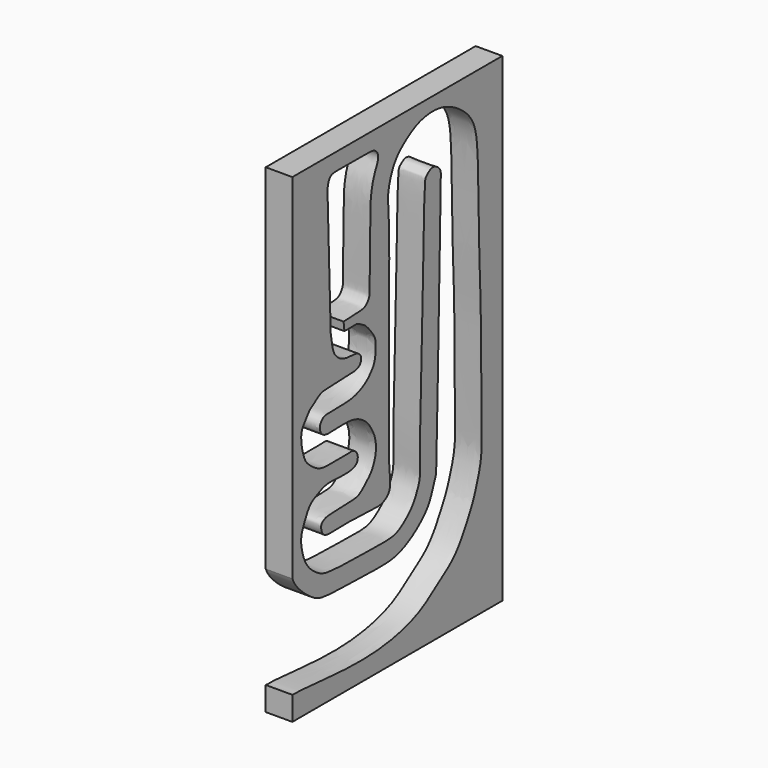
from build123d import *

# Parameters (mm, degrees)
F1_DEPTH = 25


with BuildPart() as f1:
    # F0 (on Right) → F1 (new body)
    with BuildSketch(Plane.YZ):
        with BuildLine():
            add(Edge.make_bspline(
                [(44.9712239206, 302.7128875256), (45.4526949302, 299.0960728343), (46.4029340958, 291.9578674051), (49.2035499811, 281.9020774971), (58.7554108546, 275.1390911206), (68.1329133345, 274.3241724622), (74.6206598461, 274.1159996605), (78.57594387, 272.2497413749), (80.6703059955, 269.5411970197), (80.7605682277, 264.3125402484), (77.2016242714, 260.7084792745), (68.5437792435, 259.3629142109), (54.8856034393, 259.6265127602), (46.426241762, 258.9590730913), (35.1470562234, 258.8736345603), (29.9851322588, 256.1275599425), (24.1733387007, 251.5747820657), (20.1449314395, 249.7710841633), (14.9839578995, 242.0830307621), (10.1692304565, 236.1220322001), (10.3780857055, 227.2063339283), (11.0945065174, 221.8946979415), (13.708542815, 211.9611237975), (17.2947178239, 205.9176061722), (26.5763233217, 198.5861187065), (35.5551295581, 194.4088235524), (53.0982035992, 195.3839492028), (64.2248449492, 194.5929600697), (70.8064264471, 195.9608660141), (75.9430162555, 192.0355017554), (77.1968897656, 186.9993038379), (75.3805396701, 181.6211149385), (67.4399266211, 179.2648797096), (54.0477534346, 179.5085195439), (43.6630602103, 180.5349744277), (35.1387095463, 178.8721019624), (28.5048632281, 175.37961951), (21.6602687088, 172.5140872007), (16.585301104, 164.7649862608), (12.1850153389, 154.8276980838), (9.6629147525, 147.393853199), (11.1688231954, 135.8680509439), (15.0576782547, 124.7823652343), (21.8523371942, 116.3085995405), (31.7111884158, 109.3284217772), (40.8114337578, 106.3666699603), (59.9832091133, 105.3759292472), (77.2826684409, 105.302842968), (111.1433545752, 104.1137163406), (124.7740896242, 106.2145780866), (140.8678654116, 119.5656068407), (146.0040580463, 130.5282803924), (150.2460672424, 140.0785319196), (149.3340626131, 159.5827882329), (150.1173105049, 194.6971120608), (151.9645771227, 249.935651556), (153.1305255238, 297.05073433), (154.4208433336, 371.3108396771), (155.7406763815, 380.6330414098), (155.6609613688, 385.976999998), (159.4643050549, 388.9379228132), (163.3456752819, 391.714865994), (168.5180401875, 390.6360253891), (171.9403080655, 387.6926778874), (174.5705561905, 384.7869373158), (173.933780139, 372.2060177476), (173.8881329779, 367.0574966897), (169.1801753039, 142.2218495958), (168.4756124728, 135.3294586496), (164.1377563703, 124.4008336253), (160.3844374556, 113.8017413236), (151.3651410269, 104.4311561348), (141.8823709217, 96.4956612313), (124.7700485703, 87.4216497718), (106.2589829632, 85.6650258125), (74.6575251693, 86.901544153), (40.0615525412, 87.3989188393), (27.7497882395, 90.0235679554), (15.4669273426, 98.92759597), (5.7690238857, 108.0586160012), (1.2508981864, 115.3767069729), (1.5947656939, 114.8453205824), (0, 118.2868406177)],
                knots=[0, 0, 0, 0, 0.0118140963, 0.0231729915, 0.0350179215, 0.0459993731, 0.0550613515, 0.0622720622, 0.0686843852, 0.0764715003, 0.0839946829, 0.0944824762, 0.1077186141, 0.1185039585, 0.1302000587, 0.1389480486, 0.148407439, 0.1559567264, 0.1666045065, 0.1766449015, 0.1868743306, 0.1954256311, 0.2066183262, 0.2162628197, 0.2282250607, 0.2395628501, 0.2544752469, 0.266580328, 0.2754777803, 0.2840179969, 0.2919507834, 0.2998203182, 0.3096685497, 0.3229041504, 0.3345882654, 0.3449414723, 0.3546880894, 0.3642209712, 0.375001365, 0.3867930275, 0.3967565228, 0.4087549517, 0.4210352039, 0.432803437, 0.444965685, 0.4560579073, 0.4712704076, 0.4868995433, 0.5074201442, 0.5209733173, 0.5367861559, 0.5492117249, 0.5603400178, 0.5756156288, 0.5970204906, 0.6232727987, 0.6495068638, 0.6797116812, 0.6903097538, 0.6978073935, 0.7054076771, 0.7130983979, 0.7209914664, 0.7284355558, 0.7353914128, 0.746855061, 0.7582819463, 0.8113193445, 0.8228900942, 0.834092036, 0.8462977551, 0.8589315925, 0.8716298378, 0.8870210256, 0.90233586, 0.922812209, 0.9438409626, 0.9563290559, 0.969988856, 0.9834898884, 0.992574019, 1, 1, 1, 1], degree=3))
            Line((44.9712239206, 302.7128875256), (41.1780402064, 423.5371947289))
            add(Edge.make_bspline(
                [(60.0567497313, 306.2294721603), (64.4351771267, 306.4693194385), (72.5494915309, 306.9138160709), (82.5745950595, 307.1440394515), (87.0334490447, 309.1645144388), (90.5731199176, 314.5201753785), (90.7804055262, 321.0420996686), (91.1565660598, 388.0617421768), (92.2311416473, 396.9074009261), (93.7209207778, 406.3269393977), (96.9353072397, 415.5688571046), (101.5799622801, 424.0313084222), (99.8682637569, 430.241095431), (96.1364985531, 433.1475215239), (90.8143611435, 434.0344356979), (81.3963443199, 433.4665932694), (50.5319990173, 434.5069517385), (45.7423183079, 433.2377527903), (43.6789516373, 431.5601413743), (42.4838785401, 429.0948239297), (41.9927522456, 427.6234459718), (41.8428555131, 426.5092909336), (41.1780402064, 423.5371947289)],
                knots=[0, 0, 0, 0, 0.0616224958, 0.1150147657, 0.1519605526, 0.1912561536, 0.2376776094, 0.3768381894, 0.4326798224, 0.4822262024, 0.5368901687, 0.5894023191, 0.6303536712, 0.666100565, 0.7032465627, 0.7582629821, 0.8535546761, 0.8907006494, 0.916941829, 0.9449768762, 0.9637410453, 1, 1, 1, 1], degree=3))
            Line((60.0567497313, 306.2294721603), (61.1090660095, 297.8767454624))
            add(Edge.make_bspline(
                [(61.1090660095, 297.8767454624), (65.6298837576, 297.9942358749), (72.6353617105, 298.1762995058), (76.132692168, 298.0612521375), (82.4146049068, 294.6398318768), (85.9498648341, 292.4381028065), (89.8189072975, 288.1723365171), (97.0252778476, 279.2455165635), (98.1408041419, 271.7982864543), (97.2408381904, 257.443698058), (91.8683336839, 251.0537569346), (86.8163538452, 245.39848615), (76.3198120067, 239.99489742), (64.3152102125, 237.7083878488), (43.6213486183, 238.0788108477), (36.8730991391, 237.4822644122), (33.5036658978, 234.2060102471), (31.4676228025, 229.7749379201), (33.1803127786, 225.64799518), (33.4795811008, 224.7857815071), (37.5009030689, 220.4188828194), (51.0586957567, 221.3281469023), (65.414181971, 221.7722492171), (75.797085081, 219.9074027819), (85.5489857122, 214.3350594027), (91.858757141, 206.543513783), (97.3228711809, 196.4745077939), (98.9280679901, 183.4343121761), (94.2019661439, 169.823193227), (86.9795118986, 163.0519710519), (82.8196345667, 159.192794988), (76.7025488908, 154.4003347208), (65.292300352, 154.3965817981), (49.2160064245, 153.7356794591), (39.7730210738, 153.3369841016), (35.7294639139, 151.3116827221), (33.1455503229, 148.4835286849), (34.4179474706, 142.6898580149), (36.4759644328, 139.1763099897), (42.961905288, 137.4390510619), (52.7722914475, 138.5338345348), (86.0911659274, 138.0293356873), (104.8370868893, 135.9958795818), (115.3700684692, 143.602588615), (114.5310617953, 158.1054136184), (111.6443042928, 176.259572753), (115.3956647926, 368.9728319503), (110.7203775808, 388.2094297173), (117.9765179596, 414.2530971613), (133.7271860242, 427.3803699587), (150.0668080607, 436.9534349958), (175.596121351, 439.0014775578), (200.6569147125, 424.7372126196), (216.1558013358, 406.537532186), (218.1024120432, 367.8206412134), (218.7492102726, 299.6427915495), (221.5607751342, 250.7660505382), (221.920338631, 146.5792233407), (222.012897224, 123.6702032179), (211.8928864361, 95.4401481171), (210.2000889679, 93.2040631032), (194.3573442973, 59.2840798088), (171.225747212, 46.4566859517), (149.2318329466, 27.7250982635), (101.9199919825, 16.1569646094), (47.1588219217, 18.6135190942), (10.6496540312, 22.5929683004), (2.911187476, 22.0202894871), (2.6877068449, 22.183034569), (0, 22.380342707)],
                knots=[0, 0, 0, 0, 0.0128677755, 0.0199504835, 0.0297647173, 0.0375172976, 0.0465230654, 0.059065764, 0.0696410535, 0.0836382458, 0.0943888728, 0.104640008, 0.1172230427, 0.1308673022, 0.1480116321, 0.1576084845, 0.1653348542, 0.1735884319, 0.1811315819, 0.1847464804, 0.1929093172, 0.2067473191, 0.2213096125, 0.2334823264, 0.245866256, 0.2577593739, 0.2703857372, 0.2839719376, 0.2981652442, 0.3098283498, 0.3187615493, 0.3287880216, 0.3414829015, 0.3569127723, 0.3684236639, 0.3761054467, 0.3830296302, 0.3918838215, 0.3993544814, 0.4083727414, 0.42032191, 0.4422140848, 0.458838864, 0.4710787389, 0.4838267707, 0.5013717716, 0.553278563, 0.571918442, 0.5900117186, 0.6069847184, 0.6231977482, 0.6418406453, 0.6617721785, 0.6794336819, 0.7025670658, 0.7333123315, 0.761512221, 0.7991860976, 0.8188128362, 0.8379279963, 0.8451578259, 0.8671441658, 0.8871066113, 0.9068063196, 0.932796517, 0.9616908856, 0.9841818599, 0.9929514784, 1, 1, 1, 1], degree=3))
            Line((0, 22.380342707), (0, 0))
            Line((0, 0), (246.1956521739, 0))
            Line((246.1956521739, 0), (246.1956521739, 450))
            Line((246.1956521739, 450), (0, 450))
            Line((0, 450), (0, 424.2218732834))
            Line((0, 424.2218732834), (0, 299.9842166901))
            Line((0, 299.9842166901), (0, 118.2868406177))
        make_face()
    extrude(amount=F1_DEPTH)


solid = f1.part
